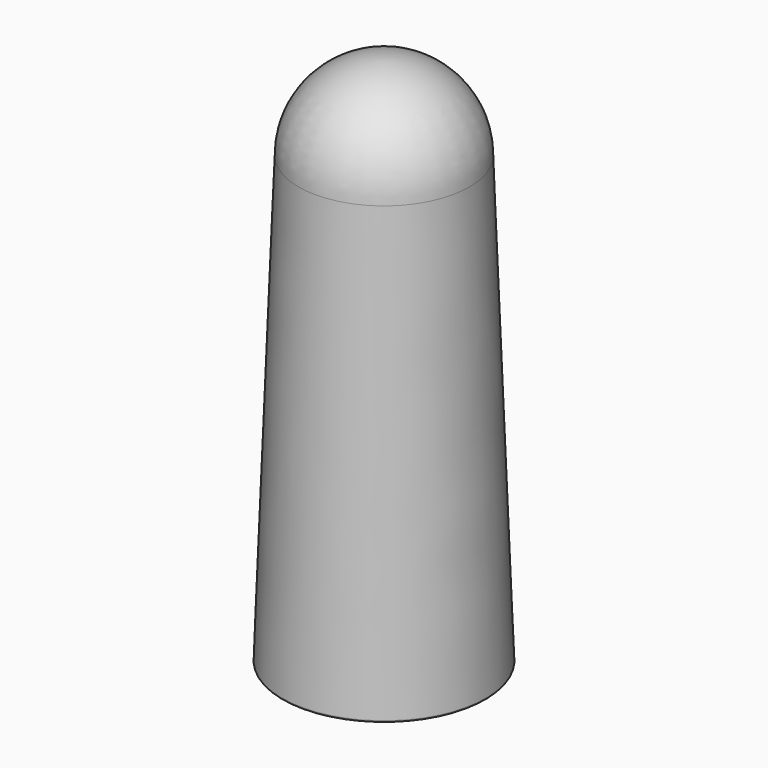
from build123d import *


with BuildPart() as f1:
    # F0 (on Right) → F1 (revolve)
    with BuildSketch(Plane.YZ):
        with BuildLine():
            Line((0, 26.5), (0, 27.4))
            ThreePointArc((0, 27.4), (-3.11127, 26.11127), (-4.4, 23))
            Line((-4.4, 23), (-5.25, 0.1))
            ThreePointArc((-5.25, 0.1), (-5.220711, 0.029289), (-5.15, 0))
            Line((-5.15, 0), (-4.349184, 0))
            Line((-4.349184, 0), (-4.145, 0))
            ThreePointArc((-4.145, 0), (-4.109645, 0.014645), (-4.095, 0.05))
            ThreePointArc((-4.095, 0.05), (-4.109645, 0.085355), (-4.145, 0.1))
            Line((-4.145, 0.1), (-4.35, 0.1))
            Line((-4.35, 0.1), (-3.5, 23))
            ThreePointArc((-3.5, 23), (-2.474874, 25.474874), (0, 26.5))
        make_face()
    revolve(axis=Axis((0, 0, 13.7), (0, 0, -1)))


solid = f1.part
